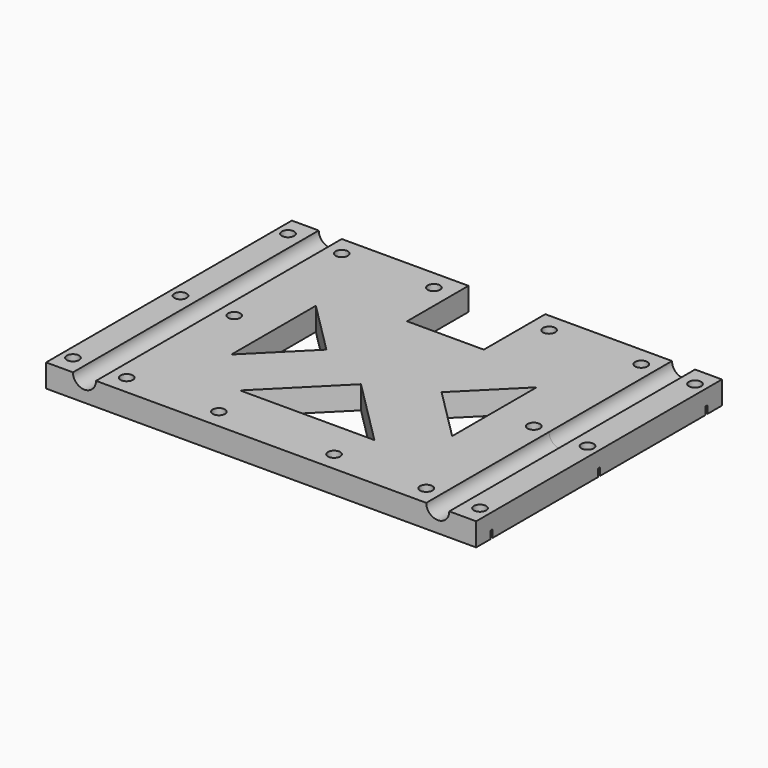
from build123d import *

# Parameters (mm, degrees)
SKETCH_R          = 1.6
PAD_DEPTH         = 6
SKETCH001_R       = 3
POCKET_DEPTH      = 40.001
POCKET_DEPTH_BACK = 40.001
POCKET001_DEPTH   = 2


with BuildPart() as toolbody:
    # Sketch → Pad (new body)
    with BuildSketch(Plane.XY):
        Polygon((46, -40), (0, -40), (0, -25), (17.5, -25), (0, -7.5), (0, 7.5), (0, 20), (10, 20), (10, 40), (46, 40), (56, 40), (56, -40), align=None)
        with Locations((53, 0)):
            Circle(SKETCH_R, mode=Mode.SUBTRACT)
        with Locations((53, 35)):
            Circle(SKETCH_R, mode=Mode.SUBTRACT)
        with Locations((53, -35)):
            Circle(SKETCH_R, mode=Mode.SUBTRACT)
        with Locations((39, 35)):
            Circle(SKETCH_R, mode=Mode.SUBTRACT)
        with Locations((39, 0)):
            Circle(SKETCH_R, mode=Mode.SUBTRACT)
        with Locations((39, -35)):
            Circle(SKETCH_R, mode=Mode.SUBTRACT)
        with Locations((15, 35)):
            Circle(SKETCH_R, mode=Mode.SUBTRACT)
        with Locations((15, -35)):
            Circle(SKETCH_R, mode=Mode.SUBTRACT)
        Polygon((15, 0), (28.75, 13.75), (28.75, -13.75), align=None, mode=Mode.SUBTRACT)
    extrude(amount=-PAD_DEPTH)

    # Sketch001 → Pocket (cut, two sides)
    with BuildSketch(Plane.XZ) as pocket_sk:
        with Locations((46, 0)):
            Circle(SKETCH001_R)
    extrude(amount=-POCKET_DEPTH, mode=Mode.SUBTRACT)
    extrude(pocket_sk.sketch, amount=POCKET_DEPTH_BACK, mode=Mode.SUBTRACT)

    # Sketch002 (on DatumPlane) → Pocket001 (cut)
    with BuildSketch(Plane.XY.offset(-6)):
        Polygon((16.587713, 32.25), (18.175426, 35), (16.587713, 37.75), (13.412287, 37.75), (11.824574, 35), (13.412287, 32.25), align=None)
        Polygon((40.587713, 32.25), (42.175426, 35), (40.587713, 37.75), (37.412287, 37.75), (35.824574, 35), (37.412287, 32.25), align=None)
        Polygon((54.587713, 32.25), (56.175426, 35), (54.587713, 37.75), (51.412287, 37.75), (49.824574, 35), (51.412287, 32.25), align=None)
        Polygon((54.587713, -2.75), (56.175426, 0), (54.587713, 2.75), (51.412287, 2.75), (49.824574, 0), (51.412287, -2.75), align=None)
        Polygon((40.587713, -2.75), (42.175426, 0), (40.587713, 2.75), (37.412287, 2.75), (35.824574, 0), (37.412287, -2.75), align=None)
        Polygon((54.587713, -37.75), (56.175426, -35), (54.587713, -32.25), (51.412287, -32.25), (49.824574, -35), (51.412287, -37.75), align=None)
        Polygon((40.587713, -37.75), (42.175426, -35), (40.587713, -32.25), (37.412287, -32.25), (35.824574, -35), (37.412287, -37.75), align=None)
        Polygon((16.587713, -37.75), (18.175426, -35), (16.587713, -32.25), (13.412287, -32.25), (11.824574, -35), (13.412287, -37.75), align=None)
    extrude(amount=POCKET001_DEPTH, mode=Mode.SUBTRACT)


with BuildPart() as toolfusion:
    # Part__Mirroring: instance of ToolBody
    add(toolbody.part.mirror(Plane(origin=(0, 0, 0), x_dir=(0, -1, 0), z_dir=(1, 0, 0))))

    # Fusion: union ToolBody
    add(toolbody.part)


solid = toolfusion.part
